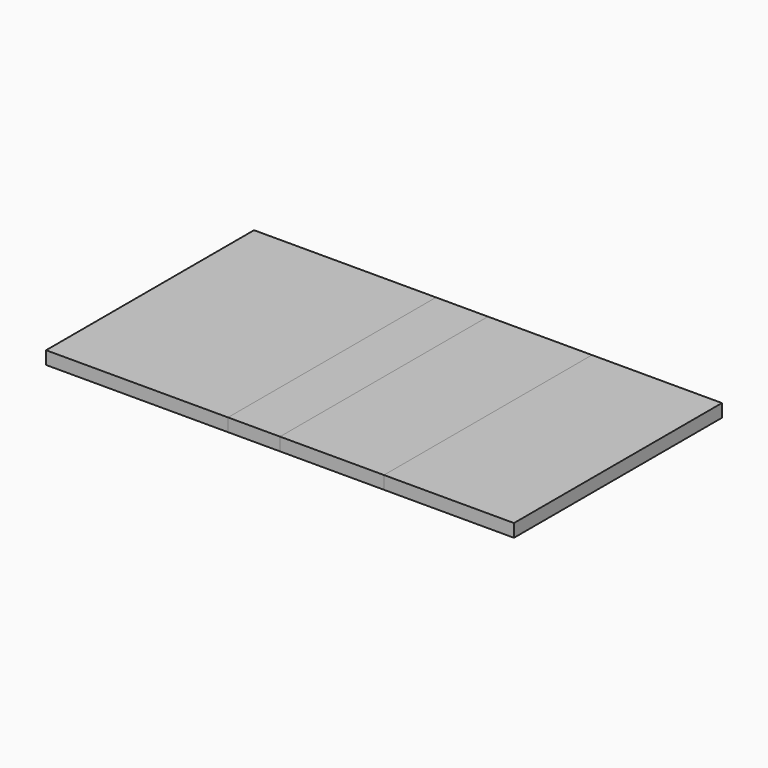
from build123d import *

# Parameters (mm, degrees)
F0_W     = 350
F0_H     = 500
F1_DEPTH = 25
F2_W     = 100
F2_H     = 500
F3_DEPTH = 25
F4_W     = 200
F4_H     = 500
F5_DEPTH = 25
F6_W     = 250
F6_H     = 500
F7_DEPTH = 25


with BuildPart() as f1:
    # F0 (on Top) → F1 (new body)
    with BuildSketch(Plane.XY):
        Rectangle(F0_W, F0_H)
    extrude(amount=F1_DEPTH)


with BuildPart() as f3:
    # F2 (on face) → F3 (new body)
    with BuildSketch(Plane(origin=(0, 0, 0), x_dir=(1, 0, 0), z_dir=(0, 0, -1))):
        with Locations((225, 0)):
            Rectangle(F2_W, F2_H)
    extrude(amount=-F3_DEPTH)


with BuildPart() as f5:
    # F4 (on Top) → F5 (new body)
    with BuildSketch(Plane.XY):
        with Locations((375, 0)):
            Rectangle(F4_W, F4_H)
    extrude(amount=F5_DEPTH)


with BuildPart() as f7:
    # F6 (on face) → F7 (new body)
    with BuildSketch(Plane(origin=(0, 0, 0), x_dir=(1, 0, 0), z_dir=(0, 0, -1))):
        with Locations((600, 0)):
            Rectangle(F6_W, F6_H)
    extrude(amount=-F7_DEPTH)


solid = Compound([f1.part, f3.part, f5.part, f7.part])
